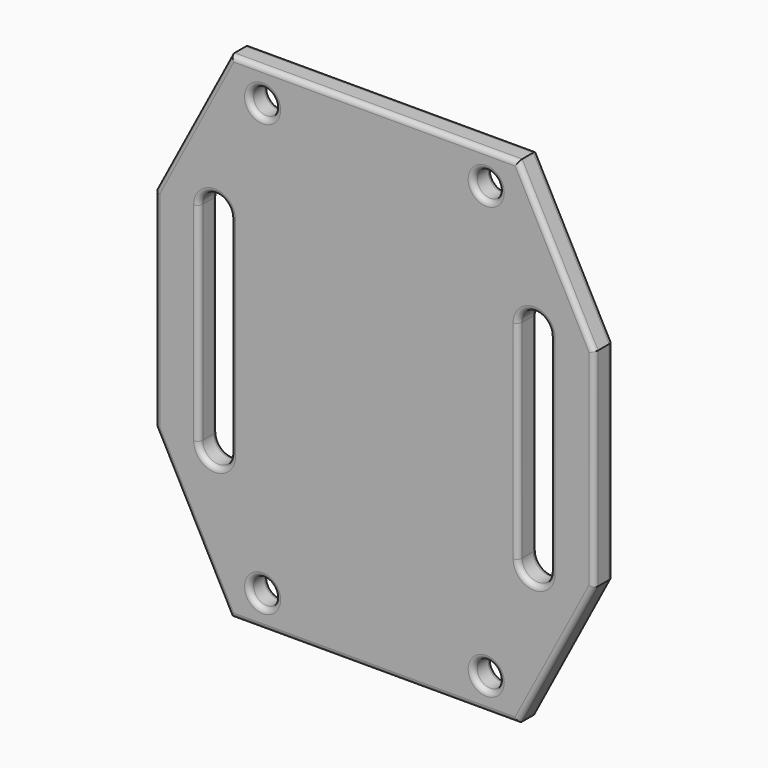
from build123d import *

# Parameters (mm, degrees)
F0_R     = 1.625
F1_DEPTH = 3
F2_R     = 0.635
F3_R     = 0.635


with BuildPart() as f1:
    # F0 (on Front) → F1 (new body)
    with BuildSketch(Plane.XZ):
        Polygon((18, 31), (-18, 31), (-27.5, 13), (-27.5, -13), (-18, -31), (18, -31), (27.5, -13), (27.5, 13), align=None)
        with Locations((-14, -27)):
            Circle(F0_R, mode=Mode.SUBTRACT)
        with Locations((14, -27)):
            Circle(F0_R, mode=Mode.SUBTRACT)
        with BuildLine():
            Line((-22, -13), (-22, 13))
            ThreePointArc((-22, 13), (-20, 15), (-18, 13))
            Line((-18, 13), (-18, -13))
            ThreePointArc((-18, -13), (-20, -15), (-22, -13))
        make_face(mode=Mode.SUBTRACT)
        with Locations((-14, 27)):
            Circle(F0_R, mode=Mode.SUBTRACT)
        with BuildLine():
            ThreePointArc((18, 13), (20, 15), (22, 13))
            Line((22, 13), (22, -13))
            ThreePointArc((22, -13), (20, -15), (18, -13))
            Line((18, -13), (18, 13))
        make_face(mode=Mode.SUBTRACT)
        with Locations((14, 27)):
            Circle(F0_R, mode=Mode.SUBTRACT)
    extrude(amount=F1_DEPTH)

    # F2
    f2_edges = [f1.edges().sort_by_distance(p)[0] for p in [
        (0, -3, 31),
        (-22.75, -3, 22),
        (-27.5, -3, 0),
        (-22.75, -3, -22),
        (0, -3, -31),
        (22.75, -3, -22),
        (27.5, -3, 0),
        (22.75, -3, 22),
        (-15.625, -3, -27),
        (12.375, -3, -27),
        (-22, -3, 0),
        (-20, -3, 15),
        (-18, -3, 0),
        (-20, -3, -15),
        (-15.625, -3, 27),
        (20, -3, 15),
        (22, -3, 0),
        (20, -3, -15),
        (18, -3, 0),
        (12.375, -3, 27),
    ]]
    fillet(f2_edges, radius=F2_R)

    # F3
    f3_edges = [f1.edges().sort_by_distance(p)[0] for p in [
        (0, 0, 31),
        (-22.75, 0, 22),
        (-27.5, 0, 0),
        (-22.75, 0, -22),
        (0, 0, -31),
        (22.75, 0, -22),
        (27.5, 0, 0),
        (22.75, 0, 22),
        (-15.625, 0, -27),
        (12.375, 0, -27),
        (-22, 0, 0),
        (-20, 0, 15),
        (-18, 0, 0),
        (-20, 0, -15),
        (-15.625, 0, 27),
        (20, 0, 15),
        (22, 0, 0),
        (20, 0, -15),
        (18, 0, 0),
        (12.375, 0, 27),
    ]]
    fillet(f3_edges, radius=F3_R)


solid = f1.part
